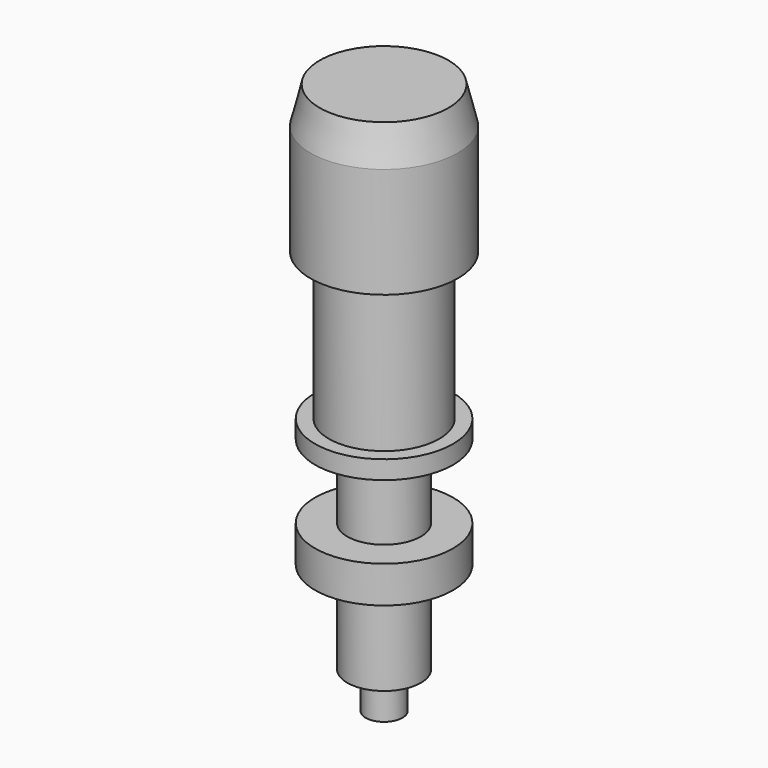
from build123d import *

# Parameters (mm, degrees)
CYLINDER020_R     = 2
CYLINDER020_DEPTH = 28
CYLINDER021_R     = 3.75
CYLINDER021_DEPTH = 2
CYLINDER022_R     = 3.75
CYLINDER022_DEPTH = 1
CYLINDER023_R     = 3
CYLINDER023_DEPTH = 8
CYLINDER024_R     = 4
CYLINDER024_DEPTH = 6
CYLINDER025_R     = 1
CYLINDER025_DEPTH = 2


with BuildPart() as cylinder020:
    # Cylinder020 → Cylinder020 (new body)
    with BuildSketch(Plane.XY):
        Circle(CYLINDER020_R)
    extrude(amount=CYLINDER020_DEPTH)


with BuildPart() as cylinder021:
    # Cylinder021 → Cylinder021 (new body)
    with BuildSketch(Plane.XY.offset(5)):
        Circle(CYLINDER021_R)
    extrude(amount=CYLINDER021_DEPTH)


with BuildPart() as cylinder022:
    # Cylinder022 → Cylinder022 (new body)
    with BuildSketch(Plane.XY.offset(11)):
        Circle(CYLINDER022_R)
    extrude(amount=CYLINDER022_DEPTH)


with BuildPart() as cylinder023:
    # Cylinder023 → Cylinder023 (new body)
    with BuildSketch(Plane.XY.offset(12)):
        Circle(CYLINDER023_R)
    extrude(amount=CYLINDER023_DEPTH)


with BuildPart() as cylinder024:
    # Cylinder024 → Cylinder024 (new body)
    with BuildSketch(Plane.XY.offset(20)):
        Circle(CYLINDER024_R)
    extrude(amount=CYLINDER024_DEPTH)


with BuildPart() as fusion002:
    # Cone → Cone (revolve)
    with BuildSketch(Plane(origin=(0, 0, 26), x_dir=(1, 0, 0), z_dir=(0, -1, 0))):
        Polygon((0, 0), (4, 0), (3.5, 2), (0, 2), align=None)
    revolve(axis=Axis((0, 0, 26), (0, 0, 1)))

    # Fusion002: union Cylinder020, Cylinder021, Cylinder022, Cylinder023, Cylinder024
    add(cylinder020.part)
    add(cylinder021.part)
    add(cylinder022.part)
    add(cylinder023.part)
    add(cylinder024.part)


with BuildPart() as mic:
    # Cylinder025 → Cylinder025 (new body)
    with BuildSketch(Plane.XY.offset(-2)):
        Circle(CYLINDER025_R)
    extrude(amount=CYLINDER025_DEPTH)

    # Fusion003: union Fusion002
    add(fusion002.part)


with BuildPart() as mic_1:
    # Fusion003 placement: moved
    add(mic.part.moved(Location((137.5, 137.5, 112.5))))


solid = mic_1.part
